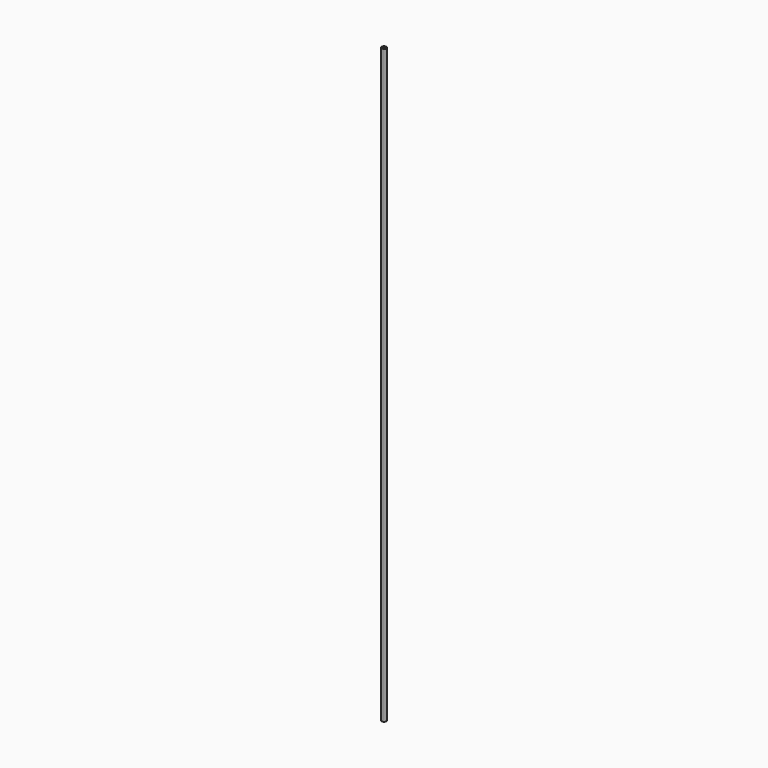
from build123d import *

# Parameters (mm, degrees)
F0_R     = 2.55
F1_DEPTH = 1600.2


with BuildPart() as f1:
    # F0 (on Top) → F1 (new body)
    with BuildSketch(Plane.XY):
        with BuildLine():
            ThreePointArc((4.241495, 5.404315), (3.435, 5.949595), (2.559526, 6.3754))
            Line((2.559526, 6.3754), (-2.559526, 6.3754))
            ThreePointArc((-2.559526, 6.3754), (-3.435, 5.949595), (-4.241495, 5.404315))
            Line((-4.241495, 5.404315), (-6.801022, 0.971085))
            ThreePointArc((-6.801022, 0.971085), (-6.87, 0), (-6.801022, -0.971085))
            Line((-6.801022, -0.971085), (-4.241495, -5.404315))
            ThreePointArc((-4.241495, -5.404315), (-3.435, -5.949595), (-2.559526, -6.3754))
            Line((-2.559526, -6.3754), (2.559526, -6.3754))
            ThreePointArc((2.559526, -6.3754), (3.435, -5.949595), (4.241495, -5.404315))
            Line((4.241495, -5.404315), (6.801022, -0.971085))
            ThreePointArc((6.801022, -0.971085), (6.87, 0), (6.801022, 0.971085))
            Line((6.801022, 0.971085), (4.241495, 5.404315))
        make_face()
        Circle(F0_R, mode=Mode.SUBTRACT)
    extrude(amount=F1_DEPTH)


solid = f1.part
